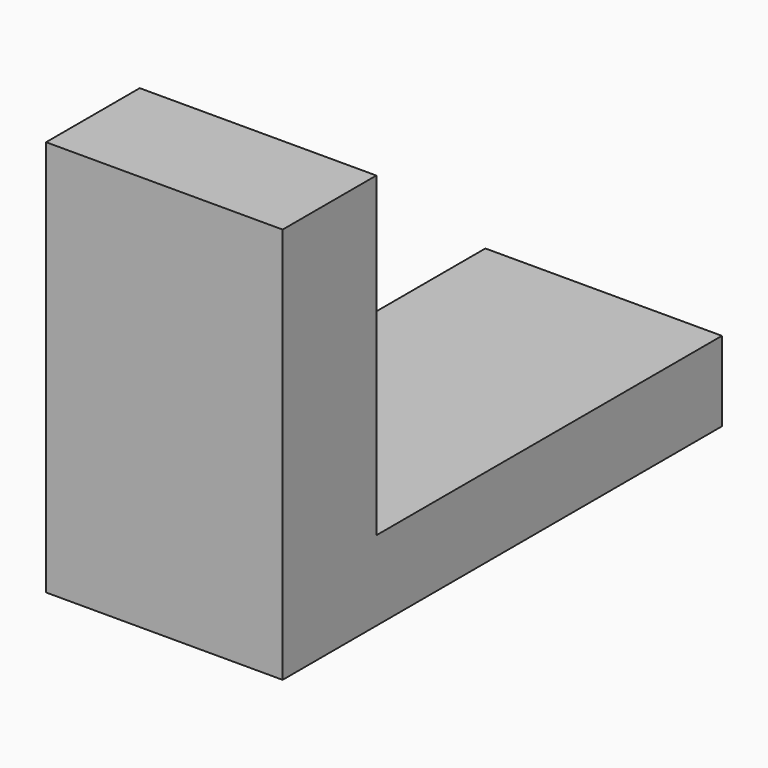
from build123d import *

# Parameters (mm, degrees)
F0_W     = 75.4162408412
F0_H     = 175.0652268529
F1_DEPTH = 25.4
F2_W     = 75.4162408412
F2_H     = 100.9825893402
F3_DEPTH = 37.3262315989


with BuildPart() as f1:
    # F0 (on Top) → F1 (new body)
    with BuildSketch(Plane.XY):
        with Locations((16.6725758463, 68.7957666814)):
            Rectangle(F0_W, F0_H)
    extrude(amount=F1_DEPTH)

    # F2 (on face) → F3 (join)
    with BuildSketch(Plane.XZ.offset(18.736846745)):
        with Locations((16.6725758463, 75.8912946701)):
            Rectangle(F2_W, F2_H)
    extrude(amount=-F3_DEPTH)


solid = f1.part
